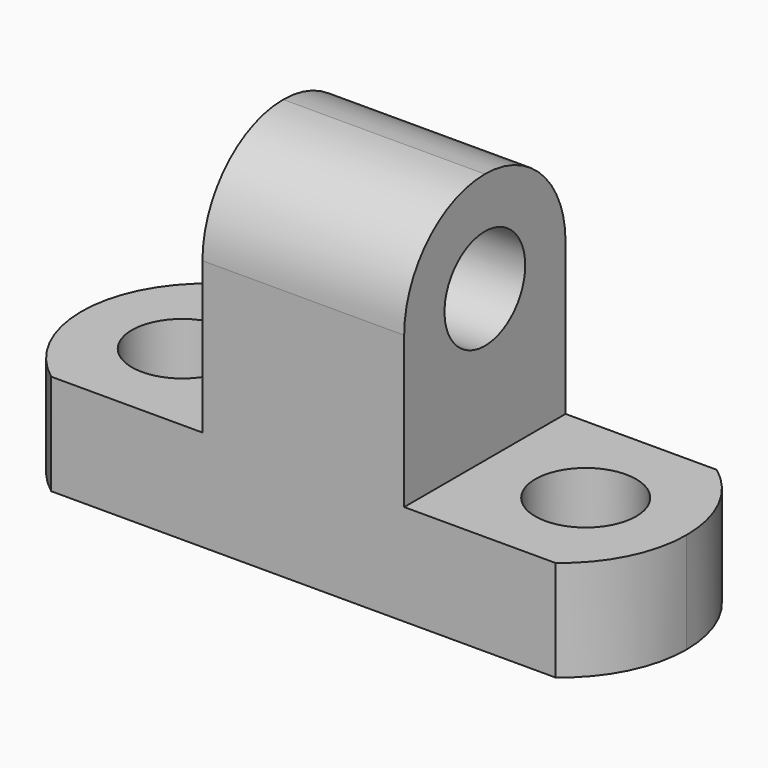
from build123d import *

# Parameters (mm, degrees)
F0_W      = 76.2
F0_H      = 44.45
F1_DEPTH  = 25.4
F2_W      = 25.4
F2_H      = 25.4
F3_DEPTH  = 31.75
F4_R      = 6.35
F5_DEPTH  = 25.4
F6_R      = 6.35
F7_DEPTH  = 25.4
F9_DEPTH  = 25.4
F11_DEPTH = 25.4
F13_DEPTH = 25.4


with BuildPart() as f1:
    # F0 (on Front) → F1 (new body)
    with BuildSketch(Plane.XZ):
        with Locations((38.1, 22.225)):
            Rectangle(F0_W, F0_H)
    extrude(amount=F1_DEPTH)

    # F2 (on face) → F3 (cut)
    with BuildSketch(Plane.XY.offset(44.45)):
        with Locations((63.5, -12.7)):
            Rectangle(F2_W, F2_H)
        with Locations((12.7, -12.7)):
            Rectangle(F2_W, F2_H)
    extrude(amount=-F3_DEPTH, mode=Mode.SUBTRACT)

    # F4 (on face) → F5 (cut)
    with BuildSketch(Plane.XY.offset(12.7)):
        with Locations((12.7, -12.7)):
            Circle(F4_R)
        with Locations((63.5, -12.7)):
            Circle(F4_R)
    extrude(amount=-F5_DEPTH, mode=Mode.SUBTRACT)

    # F6 (on face) → F7 (cut)
    with BuildSketch(Plane.YZ.offset(50.8)):
        with Locations((-12.7, 31.75)):
            Circle(F6_R)
    extrude(amount=-F7_DEPTH, mode=Mode.SUBTRACT)

    # F8 (on face) → F9 (cut)
    with BuildSketch(Plane.XY.offset(12.7)):
        with BuildLine():
            ThreePointArc((69.85, 0), (74.5240316571, -5.6004841714), (76.2, -12.7))
            Line((76.2, -12.7), (76.2, 0))
            Line((76.2, 0), (69.85, 0))
        make_face()
        with BuildLine():
            ThreePointArc((76.2, -12.7), (74.5240316571, -19.7995158286), (69.85, -25.4))
            Line((69.85, -25.4), (76.2, -25.4))
            Line((76.2, -25.4), (76.2, -12.7))
        make_face()
    extrude(amount=-F9_DEPTH, mode=Mode.SUBTRACT)

    # F10 (on face) → F11 (cut)
    with BuildSketch(Plane.XY.offset(12.7)):
        with BuildLine():
            ThreePointArc((0, -12.6999999584), (1.6759683522, -5.6004841529), (6.35, 0))
            Line((6.35, 0), (0, 0))
            Line((0, 0), (0, -12.6999999584))
        make_face()
        with BuildLine():
            ThreePointArc((6.35, -25.4), (1.6759683336, -19.79951581), (0, -12.6999999584))
            Line((0, -12.6999999584), (0, -25.4))
            Line((0, -25.4), (6.35, -25.4))
        make_face()
    extrude(amount=-F11_DEPTH, mode=Mode.SUBTRACT)

    # F12 (on face) → F13 (cut)
    with BuildSketch(Plane.YZ.offset(50.8)):
        with BuildLine():
            ThreePointArc((-25.4, 31.75), (-21.6802561211, 40.7302561211), (-12.7, 44.45))
            Line((-12.7, 44.45), (-25.4, 44.45))
            Line((-25.4, 44.45), (-25.4, 31.75))
        make_face()
        with BuildLine():
            ThreePointArc((-12.7, 44.45), (-3.7197438789, 40.7302561211), (0, 31.75))
            Line((0, 31.75), (0, 44.45))
            Line((0, 44.45), (-12.7, 44.45))
        make_face()
    extrude(amount=-F13_DEPTH, mode=Mode.SUBTRACT)


solid = f1.part
